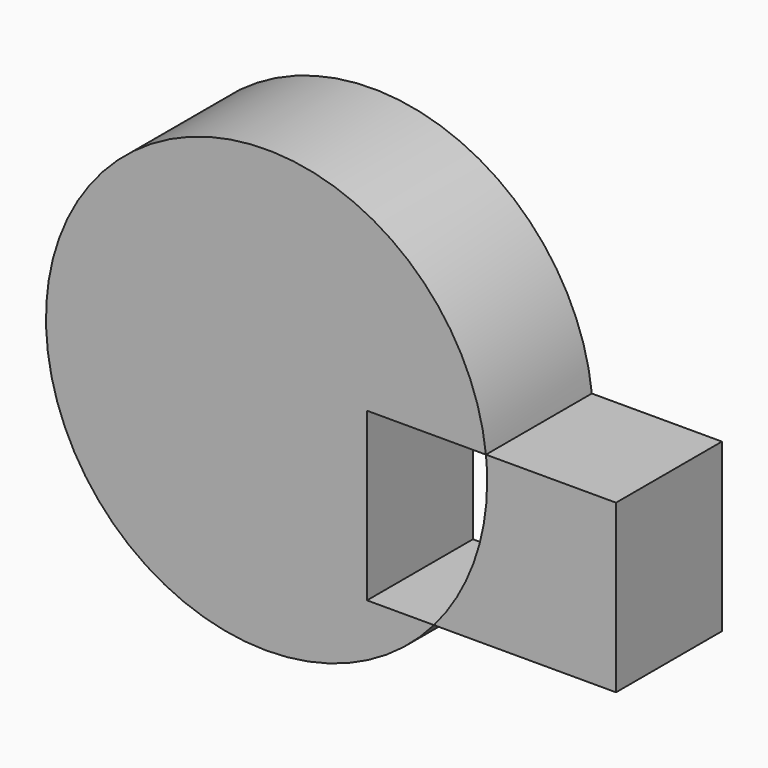
from build123d import *

# Parameters (mm, degrees)
F1_DEPTH = 381


with BuildPart() as f1:
    # F0 (on Front) → F1 (new body)
    with BuildSketch(Plane.XZ):
        with BuildLine():
            Line((289.194763, 67.061059), (631.44898, 67.061059))
            ThreePointArc((631.44898, 67.061059), (-606.322281, 188.675095), (481.903936, -413.51372))
            Line((481.903936, -413.51372), (289.194763, -413.51372))
            Line((289.194763, -413.51372), (289.194763, 67.061059))
        make_face()
        with BuildLine():
            ThreePointArc((631.44898, 67.061059), (634.111624, 33.577505), (635, 0))
            ThreePointArc((635, 0), (595.497271, -220.472221), (481.903936, -413.51372))
            Line((481.903936, -413.51372), (1005.913973, -413.51372))
            Line((1005.913973, -413.51372), (1005.913973, 67.061059))
            Line((1005.913973, 67.061059), (631.44898, 67.061059))
        make_face()
    extrude(amount=F1_DEPTH)


solid = f1.part
